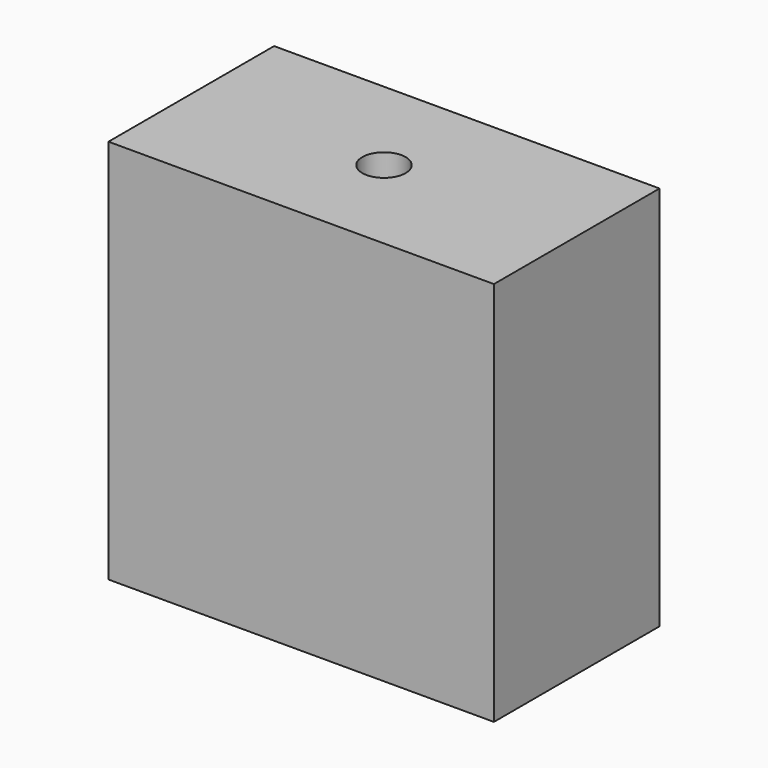
from build123d import *

# Parameters (mm, degrees)
F0_W     = 22.225
F0_H     = 22.225
F1_DEPTH = 11.938
F3_DEPTH = 25.4


with BuildPart() as f1:
    # F0 (on Front) → F1 (new body)
    with BuildSketch(Plane.XZ):
        with Locations((12.431864, 11.1125)):
            Rectangle(F0_W, F0_H)
    extrude(amount=F1_DEPTH)

    # F2 (on face) → F3 (cut)
    with BuildSketch(Plane(origin=(0, 0, 0), x_dir=(1, 0, 0), z_dir=(0, 0, -1))):
        with BuildLine():
            ThreePointArc((13.681864, 5.969), (12.431864, 7.219), (11.181864, 5.969))
            ThreePointArc((11.181864, 5.969), (12.431864, 4.719), (13.681864, 5.969))
        make_face()
    extrude(amount=-F3_DEPTH, mode=Mode.SUBTRACT)


solid = f1.part
